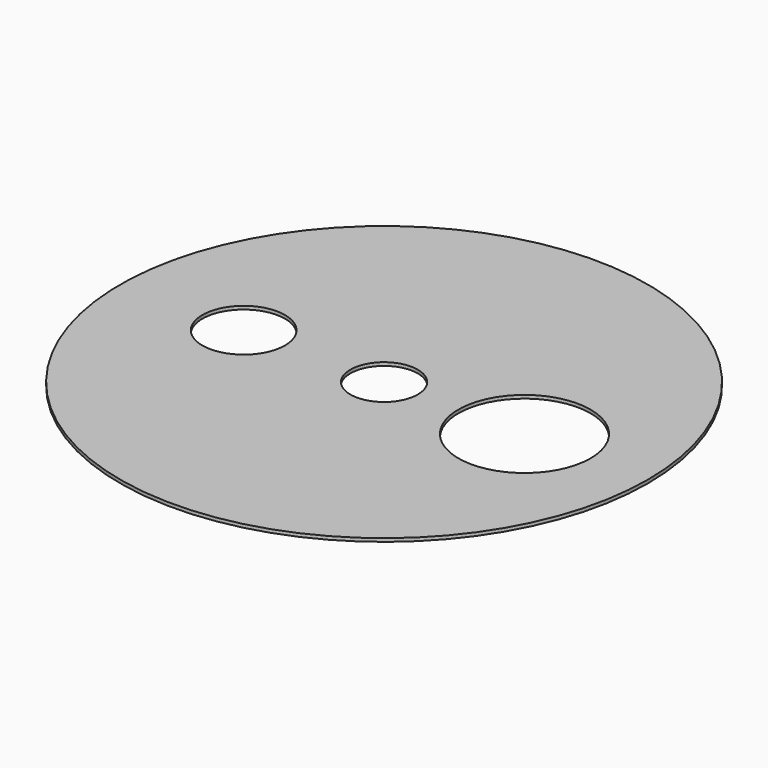
from build123d import *

# Parameters (mm, degrees)
F0_R     = 50.7365
F0_R_2   = 44.45
F0_R_3   = 7.9375
F0_R_4   = 6.477
F0_R_5   = 12.7
F1_DEPTH = 0.635


with BuildPart() as f1:
    # F0 (on Top) → F1 (new body)
    with BuildSketch(Plane.XY):
        Circle(F0_R)
        Circle(F0_R_2, mode=Mode.SUBTRACT)
        Circle(F0_R_2)
        with Locations((-26.9875, 0)):
            Circle(F0_R_3, mode=Mode.SUBTRACT)
        Circle(F0_R_4, mode=Mode.SUBTRACT)
        with Locations((26.9875, 0)):
            Circle(F0_R_5, mode=Mode.SUBTRACT)
    extrude(amount=-F1_DEPTH)


solid = f1.part
